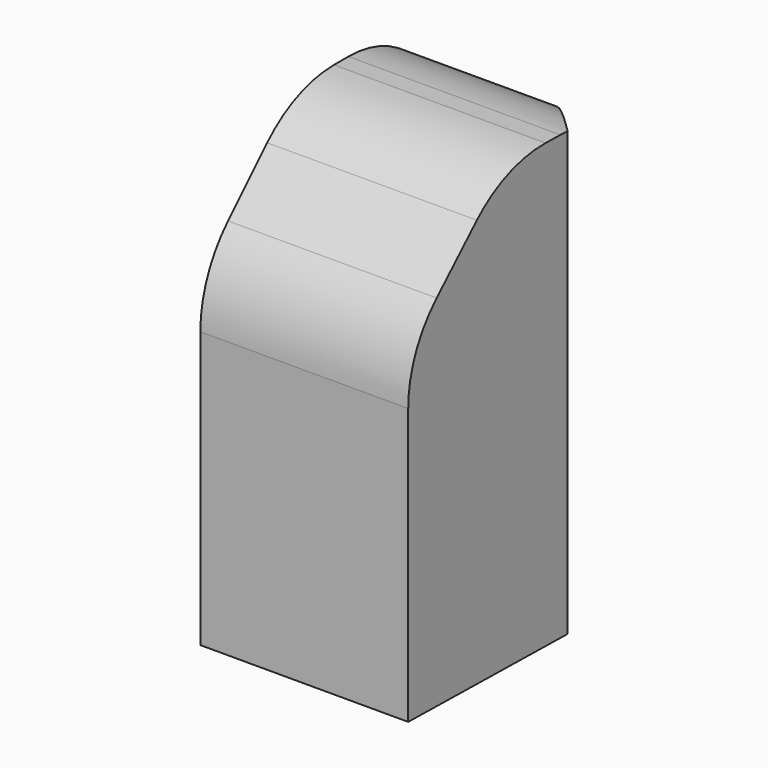
from build123d import *

# Parameters (mm, degrees)
F1_DEPTH = 19.05
F2_DEPTH = 12.7
F3_SIZE  = 5.08
F4_R     = 5.08


with BuildPart() as f1:
    # F0 (on Top) → F1 (new body)
    with BuildSketch(Plane.XY):
        Polygon((1.9531995618, -3.6446304457), (0, -3.6446304457), (0, -16.6841130704), (8.9412089437, -16.6841130704), (9.1255623847, -8.3420565352), (4.5166932978, -3.6446304457), align=None)
    extrude(amount=F1_DEPTH)

    # F0 (on Top) → F2 (join)
    with BuildSketch(Plane.XY):
        Polygon((1.9531995618, -3.6446304457), (0, -3.6446304457), (0, -16.6841130704), (8.9412089437, -16.6841130704), (9.1255623847, -8.3420565352), (4.5166932978, -3.6446304457), align=None)
    extrude(amount=F2_DEPTH)

    # F3
    f3_edges = [f1.edges().sort_by_distance(p)[0] for p in [
        (4.470604, -16.684113, 19.05),
    ]]
    chamfer(f3_edges, length=F3_SIZE)

    # F4
    f4_edges = [f1.edges().sort_by_distance(p)[0] for p in [
        (4.526737, -11.604113, 19.05),
        (4.470604, -16.684113, 13.97),
        (2.258347, -3.64463, 19.05),
    ]]
    fillet(f4_edges, radius=F4_R)


solid = f1.part
